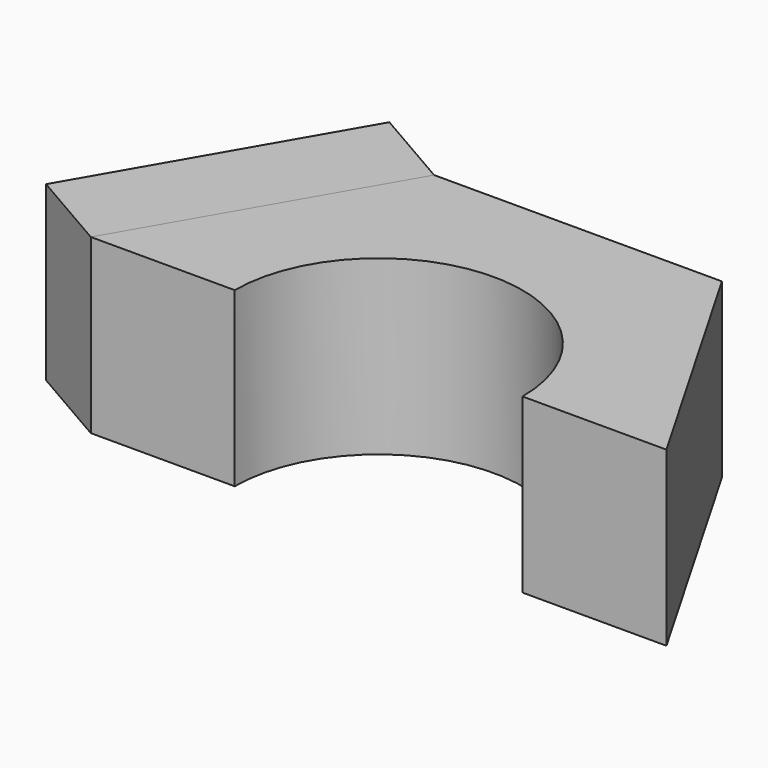
from build123d import *

# Parameters (mm, degrees)
F1_DEPTH = 45.72
F2_R     = 38.1
F3_DEPTH = 45.721
F4_W     = 76.2
F4_H     = 45.72
F4_R     = 12.7
F5_DEPTH = 25.4


with BuildPart() as f1:
    # F0 (on Top) → F1 (new body)
    with BuildSketch(Plane.XY):
        Polygon((-76.2, 0), (0, 0), (-38.1, 65.991136), align=None)
        Polygon((-38.1, 65.991136), (0, 0), (76.2, 0), (38.1, 65.991136), align=None)
    extrude(amount=F1_DEPTH)

    # F2 (on face) → F3 (cut, through all)
    with BuildSketch(Plane.XY.offset(45.72)):
        Circle(F2_R)
    extrude(amount=-F3_DEPTH, mode=Mode.SUBTRACT)


with BuildPart() as f5:
    # F4 (on face) → F5 (new body)
    with BuildSketch(Plane(origin=(-57.15, 32.995568, 0), x_dir=(-0.5, -0.866025, 0), z_dir=(-0.866025, 0.5, 0))):
        with Locations((0, 22.86)):
            Rectangle(F4_W, F4_H)
        with Locations((0, 25.4)):
            Circle(F4_R, mode=Mode.SUBTRACT)
    extrude(amount=F5_DEPTH)


solid = Compound([f1.part, f5.part])
